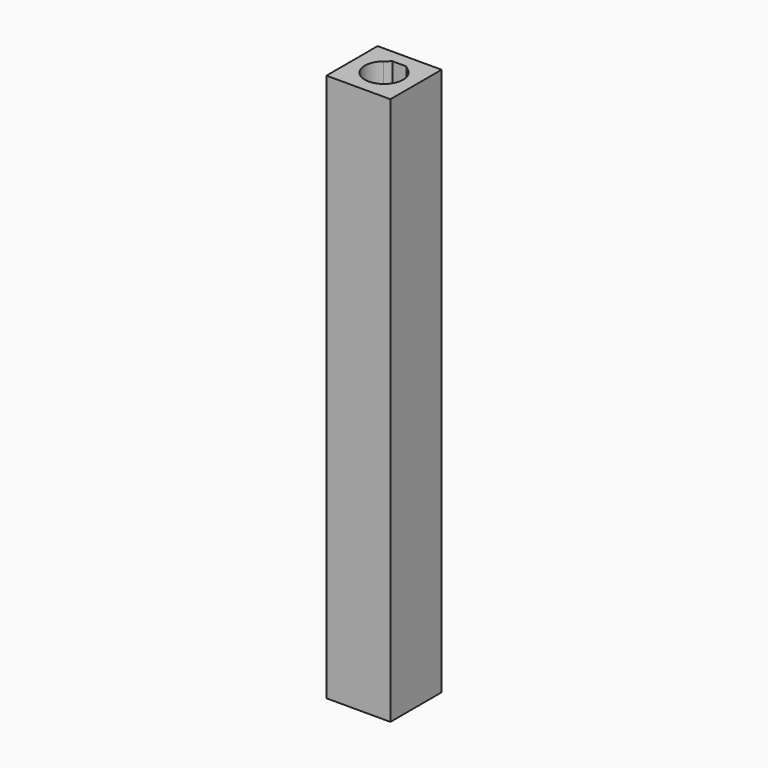
from build123d import *

# Parameters (mm, degrees)
SKETCH_W  = 7
SKETCH_H  = 7
PAD_DEPTH = 60


with BuildPart() as part:
    # Sketch → Pad (new body)
    with BuildSketch(Plane.XY):
        Rectangle(SKETCH_W, SKETCH_H)
        with BuildLine():
            ThreePointArc((-1.349854, 1.608693), (0, -2.1), (1.349854, 1.608693))
            Line((0.764337, 2.1), (1.349854, 1.608693))
            Line((-0.764337, 2.1), (0.764337, 2.1))
            Line((-0.764337, 2.1), (-1.349854, 1.608693))
        make_face(mode=Mode.SUBTRACT)
    extrude(amount=PAD_DEPTH)


solid = part.part
